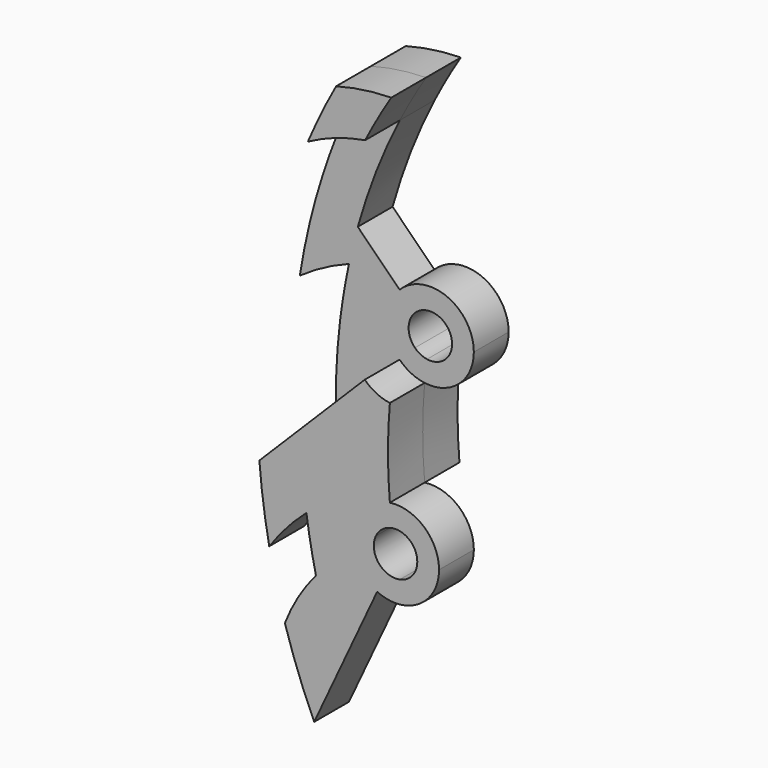
from build123d import *

# Parameters (mm, degrees)
F1_DEPTH = 12.7
F2_DEPTH = 12.7


with BuildPart() as f1:
    # F0 (on Front) → F1 (new body)
    with BuildSketch(Plane.XZ):
        with BuildLine():
            ThreePointArc((-25.5994319004, 97.5955626783), (-17.4827308479, 101.1935484174), (-8.8816627401, 103.3953578462))
            ThreePointArc((-8.8816627401, 103.3953578462), (-5.2173217074, 110.1976419206), (-1.2506190365, 116.8281572666))
            ThreePointArc((-1.2506190365, 116.8281572666), (-9.3730802173, 116.1714537642), (-17.3528252422, 114.5193930928))
            ThreePointArc((-17.3528252422, 114.5193930928), (-21.6922788774, 106.1628031287), (-25.5994319004, 97.5955626783))
        make_face()
        with BuildLine():
            ThreePointArc((-25.5994319004, 97.5955626783), (-17.4827308479, 101.1935484174), (-8.8816627401, 103.3953578462))
            ThreePointArc((-8.8816627401, 103.3953578462), (-5.2173217074, 110.1976419206), (-1.2506190365, 116.8281572666))
            ThreePointArc((-1.2506190365, 116.8281572666), (-9.3730802173, 116.1714537642), (-17.3528252422, 114.5193930928))
            ThreePointArc((-17.3528252422, 114.5193930928), (-21.6922788774, 106.1628031287), (-25.5994319004, 97.5955626783))
        make_face()
    extrude(amount=F1_DEPTH)


with BuildPart() as f1b:
    # F0 (on Front) → F1, piece 2 (new body)
    with BuildSketch(Plane.XZ):
        with BuildLine():
            Line((-23.76464523, -50.9634461592), (-16.5005489408, -35.3855413958))
            ThreePointArc((-16.5005489408, -35.3855413958), (-20.2450862438, -24.3843475762), (-23.2367694573, -13.1550262867))
            ThreePointArc((-23.2367694573, -13.1550262867), (-28.4102740665, -20.3703701742), (-32.3152871513, -28.3439020242))
            ThreePointArc((-32.3152871513, -28.3439020242), (-28.4112043135, -39.7940095573), (-23.76464523, -50.9634461592))
        make_face()
        with BuildLine():
            ThreePointArc((-5.3672519241, -11.5101088954), (-11.934096284, -4.3436558202), (-11.5101088954, 5.3672519241))
            Line((-11.5101088954, 5.3672519241), (-27.1488132668, 12.6596995361))
            ThreePointArc((-27.1488132668, 12.6596995361), (-26.6697420202, 7.341230959), (-26.0254878639, 2.0402354064))
            ThreePointArc((-26.0254878639, 2.0402354064), (-24.8021452922, -5.5887813575), (-23.2367694573, -13.1550262867))
            ThreePointArc((-23.2367694573, -13.1550262867), (-20.2450862438, -24.3843475762), (-16.5005489408, -35.3855413958))
            Line((-16.5005489408, -35.3855413958), (-5.3672519241, -11.5101088954))
        make_face()
        with BuildLine():
            ThreePointArc((-26.0254878639, 2.0402354064), (-26.6697420202, 7.341230959), (-27.1488132668, 12.6596995361))
            Line((-27.1488132668, 12.6596995361), (-34.6448439504, 16.1551560496))
            Line((-34.6448439504, 16.1551560496), (-39.761986918, 11.038013082))
            ThreePointArc((-39.761986918, 11.038013082), (-38.6246011082, 0.4379371292), (-36.876448445, -10.078679197))
            ThreePointArc((-36.876448445, -10.078679197), (-31.8255332412, -3.6838460696), (-26.0254878639, 2.0402354064))
        make_face()
        with BuildLine():
            ThreePointArc((-11.5101088954, 5.3672519241), (-7.5106952878, 10.2410671462), (-1.6602958084, 12.5910054336))
            ThreePointArc((-1.6602958084, 12.5910054336), (-2.2222120536, 25.4), (-1.6602958084, 38.2089945664))
            ThreePointArc((-1.6602958084, 38.2089945664), (-5.6182483027, 39.4102991256), (-8.9802561211, 41.8197438789))
            Line((-8.9802561211, 41.8197438789), (-27.6080120185, 23.1919879815))
            ThreePointArc((-27.6080120185, 23.1919879815), (-27.459279183, 17.922318047), (-27.1488132668, 12.6596995361))
            Line((-27.1488132668, 12.6596995361), (-11.5101088954, 5.3672519241))
        make_face()
        with BuildLine():
            Line((-34.6448439504, 16.1551560496), (-27.1488132668, 12.6596995361))
            ThreePointArc((-27.1488132668, 12.6596995361), (-27.459279183, 17.922318047), (-27.6080120185, 23.1919879815))
            Line((-27.6080120185, 23.1919879815), (-34.6448439504, 16.1551560496))
        make_face()
        with BuildLine():
            Line((-5.7550544477, 2.6836259621), (-11.5101088954, 5.3672519241))
            ThreePointArc((-11.5101088954, 5.3672519241), (-11.934096284, -4.3436558202), (-5.3672519241, -11.5101088954))
            Line((-5.3672519241, -11.5101088954), (-2.6836259621, -5.7550544477))
            ThreePointArc((-2.6836259621, -5.7550544477), (-5.967048142, -2.1718279101), (-5.7550544477, 2.6836259621))
        make_face()
        with BuildLine():
            ThreePointArc((-0.9666668919, 6.2759903697), (-1.3477700165, 9.4297317015), (-1.6602958084, 12.5910054336))
            ThreePointArc((-1.6602958084, 12.5910054336), (-7.5106952878, 10.2410671462), (-11.5101088954, 5.3672519241))
            Line((-11.5101088954, 5.3672519241), (-5.7550544477, 2.6836259621))
            ThreePointArc((-5.7550544477, 2.6836259621), (-3.8107289265, 5.0794532234), (-0.9666668919, 6.2759903697))
        make_face()
        with BuildLine():
            ThreePointArc((2.7462097635, -12.3995295046), (9.9037079924, -7.9502558451), (12.7, 0))
            ThreePointArc((12.7, 0), (8.372700975, 9.5492344397), (-1.6602958084, 12.5910054336))
            ThreePointArc((-1.6602958084, 12.5910054336), (-1.3477700165, 9.4297317015), (-0.9666668919, 6.2759903697))
            ThreePointArc((-0.9666668919, 6.2759903697), (4.1342572027, 4.8197943298), (6.35, 0))
            ThreePointArc((6.35, 0), (4.9083970483, -4.0286645947), (1.2381453807, -6.2281213874))
            ThreePointArc((1.2381453807, -6.2281213874), (1.958668649, -9.3220137901), (2.7462097635, -12.3995295046))
        make_face()
        with BuildLine():
            ThreePointArc((-5.3672519241, -11.5101088954), (-1.3839193463, -12.6243719544), (2.7462097635, -12.3995295046))
            ThreePointArc((2.7462097635, -12.3995295046), (1.958668649, -9.3220137901), (1.2381453807, -6.2281213874))
            ThreePointArc((1.2381453807, -6.2281213874), (-0.7604614455, -6.3042999921), (-2.6836259621, -5.7550544477))
            Line((-2.6836259621, -5.7550544477), (-5.3672519241, -11.5101088954))
        make_face()
    extrude(amount=F1_DEPTH)


with BuildPart() as f2:
    # F0 (on Front) → F2 (new body)
    with BuildSketch(Plane.XZ):
        with BuildLine():
            Line((-27.6080120185, 23.1919879815), (-8.9802561211, 41.8197438789))
            ThreePointArc((-8.9802561211, 41.8197438789), (-12.7, 50.8), (-8.9802561211, 59.7802561211))
            Line((-8.9802561211, 59.7802561211), (-21.1816672401, 71.9816672401))
            ThreePointArc((-21.1816672401, 71.9816672401), (-22.5505109099, 66.8200895478), (-23.7581572919, 61.6184352454))
            ThreePointArc((-23.7581572919, 61.6184352454), (-25.2178687116, 54.0310966868), (-26.334704766, 46.3857620924))
            ThreePointArc((-26.334704766, 46.3857620924), (-27.3640962034, 34.8104358188), (-27.6080120185, 23.1919879815))
        make_face()
        with BuildLine():
            ThreePointArc((-11.5101088954, 5.3672519241), (-7.5106952878, 10.2410671462), (-1.6602958084, 12.5910054336))
            ThreePointArc((-1.6602958084, 12.5910054336), (-2.2222120536, 25.4), (-1.6602958084, 38.2089945664))
            ThreePointArc((-1.6602958084, 38.2089945664), (-5.6182483027, 39.4102991256), (-8.9802561211, 41.8197438789))
            Line((-8.9802561211, 41.8197438789), (-27.6080120185, 23.1919879815))
            ThreePointArc((-27.6080120185, 23.1919879815), (-27.459279183, 17.922318047), (-27.1488132668, 12.6596995361))
            Line((-27.1488132668, 12.6596995361), (-11.5101088954, 5.3672519241))
        make_face()
        with BuildLine():
            ThreePointArc((-23.7581572919, 61.6184352454), (-22.5505109099, 66.8200895478), (-21.1816672401, 71.9816672401))
            Line((-21.1816672401, 71.9816672401), (-31.3659370421, 82.1659370421))
            ThreePointArc((-31.3659370421, 82.1659370421), (-35.2888897153, 68.1864561816), (-38.0996377881, 53.9416277138))
            ThreePointArc((-38.0996377881, 53.9416277138), (-31.1661683001, 58.2232904729), (-23.7581572919, 61.6184352454))
        make_face()
        with BuildLine():
            Line((-31.3659370421, 82.1659370421), (-21.1816672401, 71.9816672401))
            ThreePointArc((-21.1816672401, 71.9816672401), (-15.8051852828, 87.9913837722), (-8.8816627401, 103.3953578462))
            ThreePointArc((-8.8816627401, 103.3953578462), (-17.4827308479, 101.1935484174), (-25.5994319004, 97.5955626783))
            ThreePointArc((-25.5994319004, 97.5955626783), (-28.6550820191, 89.9451798969), (-31.3659370421, 82.1659370421))
        make_face()
        with BuildLine():
            Line((-31.3659370421, 82.1659370421), (-21.1816672401, 71.9816672401))
            ThreePointArc((-21.1816672401, 71.9816672401), (-15.8051852828, 87.9913837722), (-8.8816627401, 103.3953578462))
            ThreePointArc((-8.8816627401, 103.3953578462), (-17.4827308479, 101.1935484174), (-25.5994319004, 97.5955626783))
            ThreePointArc((-25.5994319004, 97.5955626783), (-28.6550820191, 89.9451798969), (-31.3659370421, 82.1659370421))
        make_face()
        with BuildLine():
            ThreePointArc((-25.5994319004, 97.5955626783), (-17.4827308479, 101.1935484174), (-8.8816627401, 103.3953578462))
            ThreePointArc((-8.8816627401, 103.3953578462), (-5.2173217074, 110.1976419206), (-1.2506190365, 116.8281572666))
            ThreePointArc((-1.2506190365, 116.8281572666), (-9.3730802173, 116.1714537642), (-17.3528252422, 114.5193930928))
            ThreePointArc((-17.3528252422, 114.5193930928), (-21.6922788774, 106.1628031287), (-25.5994319004, 97.5955626783))
        make_face()
        with BuildLine():
            ThreePointArc((-8.9802561211, 41.8197438789), (-5.6182483027, 39.4102991256), (-1.6602958084, 38.2089945664))
            ThreePointArc((-1.6602958084, 38.2089945664), (-1.3477700165, 41.3702682985), (-0.9666668919, 44.5240096303))
            ThreePointArc((-0.9666668919, 44.5240096303), (-2.8707975956, 45.1359889508), (-4.4901280605, 46.3098719395))
            Line((-4.4901280605, 46.3098719395), (-8.9802561211, 41.8197438789))
        make_face()
        with BuildLine():
            ThreePointArc((-8.9802561211, 59.7802561211), (-12.7, 50.8), (-8.9802561211, 41.8197438789))
            Line((-8.9802561211, 41.8197438789), (-4.4901280605, 46.3098719395))
            ThreePointArc((-4.4901280605, 46.3098719395), (-6.35, 50.8), (-4.4901280605, 55.2901280605))
            Line((-4.4901280605, 55.2901280605), (-8.9802561211, 59.7802561211))
        make_face()
        with BuildLine():
            ThreePointArc((-0.9666668919, 44.5240096303), (-1.3477700165, 41.3702682985), (-1.6602958084, 38.2089945664))
            ThreePointArc((-1.6602958084, 38.2089945664), (8.372700975, 41.2507655603), (12.7, 50.8))
            ThreePointArc((12.7, 50.8), (4.860079591, 62.5332700629), (-8.9802561211, 59.7802561211))
            Line((-8.9802561211, 59.7802561211), (-4.4901280605, 55.2901280605))
            ThreePointArc((-4.4901280605, 55.2901280605), (2.4300397955, 56.6666350314), (6.35, 50.8))
            ThreePointArc((6.35, 50.8), (4.1342572027, 45.9802056702), (-0.9666668919, 44.5240096303))
        make_face()
    extrude(amount=-F2_DEPTH)


solid = Compound([f1.part, f1b.part, f2.part])
